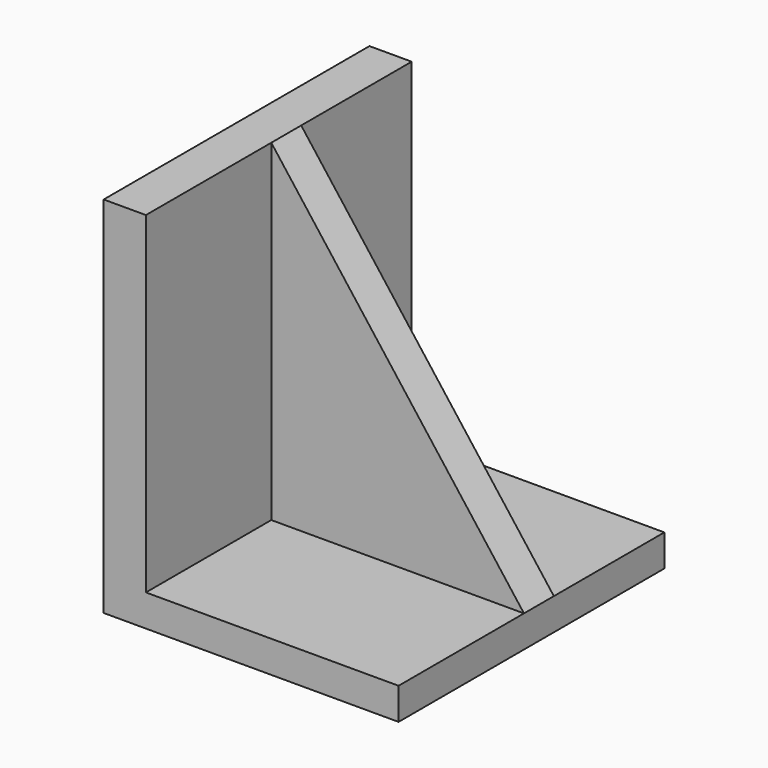
from build123d import *

# Parameters (mm, degrees)
F0_W     = 67.6434636116
F0_H     = 7.3007261381
F1_DEPTH = 76.2
F2_W     = 9.6846371889
F2_H     = 76.2
F3_DEPTH = 76.2
F4_W     = 57.9588264227
F4_H     = 8.5687600076
F5_DEPTH = 76.2
F7_DEPTH = 40.2453660319


with BuildPart() as f1:
    # F0 (on Front) → F1 (new body)
    with BuildSketch(Plane.XZ):
        with Locations((-12.3665370047, 3.650363069)):
            Rectangle(F0_W, F0_H)
    extrude(amount=-F1_DEPTH)

    # F2 (on face) → F3 (join)
    with BuildSketch(Plane.XY.offset(7.3007261381)):
        with Locations((-41.3459502161, 38.1)):
            Rectangle(F2_W, F2_H)
    extrude(amount=F3_DEPTH)

    # F4 (on face) → F5 (join)
    with BuildSketch(Plane.XY.offset(7.3007261381)):
        with Locations((-7.5242184103, 40.2400139719)):
            Rectangle(F4_W, F4_H)
    extrude(amount=F5_DEPTH)

    # F6 (on face) → F7 (cut, through all)
    with BuildSketch(Plane.XZ.offset(-35.9556339681)):
        Polygon((21.4551948011, 83.5007261381), (-36.5036316216, 83.5007261381), (21.4551948011, 7.3007261381), align=None)
    extrude(amount=-F7_DEPTH, mode=Mode.SUBTRACT)


solid = f1.part
